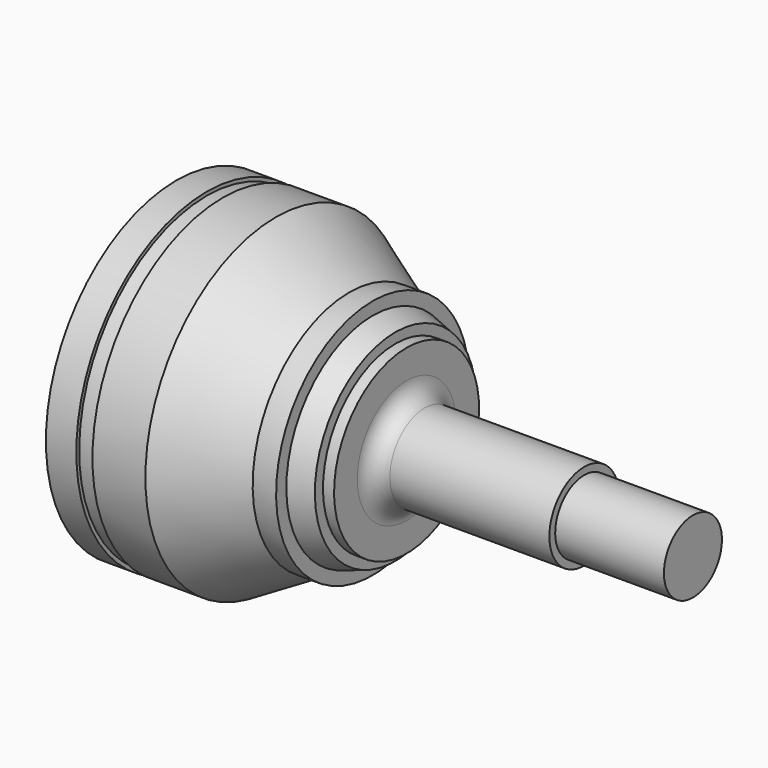
from build123d import *

# Parameters (mm, degrees)
F2_R = 5


with BuildPart() as f1:
    # F0 (on Front) → F1 (revolve)
    with BuildSketch(Plane.XZ):
        with BuildLine():
            Line((8.393259, 45), (0, 45))
            Line((0, 45), (0, 38.729833))
            ThreePointArc((0, 38.729833), (34.494897, 31.622777), (50, 0))
            Line((50, 0), (142.5, 0))
            Line((142.5, 0), (142.5, 10))
            Line((142.5, 10), (112.5, 10))
            Line((112.5, 10), (112.5, 12))
            Line((112.5, 12), (63.5, 12))
            Line((63.5, 12), (63.5, 25))
            Line((63.5, 25), (60.439724, 25))
            Line((60.439724, 25), (60.439724, 27.797434))
            Line((60.439724, 27.797434), (54.154508, 29.772789))
            Line((54.154508, 29.772789), (54.154508, 33.31258))
            Line((54.154508, 33.31258), (47.689248, 33.31258))
            Line((47.689248, 33.31258), (27.446042, 45))
            Line((27.446042, 45), (12.842697, 45))
            Line((12.842697, 45), (12.842697, 44))
            Line((12.842697, 44), (8.393259, 44))
            Line((8.393259, 44), (8.393259, 45))
        make_face()
    revolve(axis=Axis((96.25, 0, 0), (-1, 0, 0)))

    # F2
    f2_edges = [f1.edges().sort_by_distance(p)[0] for p in [
        (63.5, 0, -12),
    ]]
    fillet(f2_edges, radius=F2_R)


solid = f1.part
